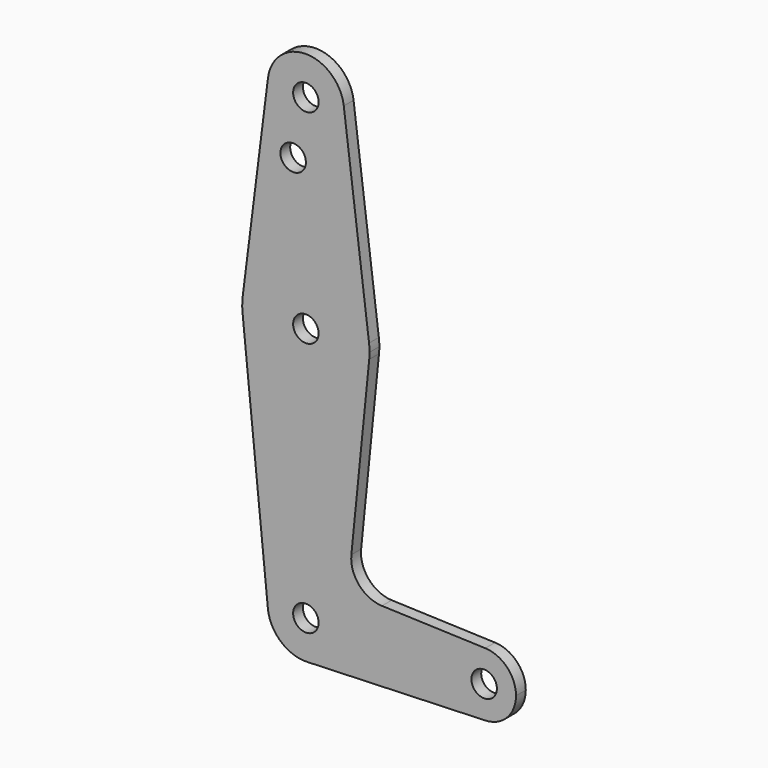
from build123d import *

# Parameters (mm, degrees)
F0_R     = 3.175
F1_DEPTH = 3.048


with BuildPart() as f1:
    # F0 (on Front) → F1 (new body)
    with BuildSketch(Plane.XZ):
        with BuildLine():
            Line((-41.0209696784, 53.578125), (-47.3211649879, 3.571875))
            ThreePointArc((-47.3211649879, 3.571875), (-31.5706767142, 17.4625), (-15.8201884405, 3.571875))
            Line((-15.8201884405, 3.571875), (-22.12038375, 53.578125))
            ThreePointArc((-22.12038375, 53.578125), (-22.06437182, 52.983983242), (-22.0456767142, 52.3875))
            ThreePointArc((-22.0456767142, 52.3875), (-32.1671599562, 42.8811951058), (-41.0209696784, 53.578125))
        make_face()
        with Locations((-34.7456767142, 38.1127)):
            Circle(F0_R, mode=Mode.SUBTRACT)
        with BuildLine():
            ThreePointArc((-22.12038375, 53.578125), (-31.5706767142, 61.9125), (-41.0209696784, 53.578125))
            ThreePointArc((-41.0209696784, 53.578125), (-32.1671599562, 42.8811951058), (-22.0456767142, 52.3875))
            ThreePointArc((-22.0456767142, 52.3875), (-22.06437182, 52.983983242), (-22.12038375, 53.578125))
        make_face()
        with Locations((-31.5706767142, 52.3875)):
            Circle(F0_R, mode=Mode.SUBTRACT)
        with BuildLine():
            ThreePointArc((-47.3211649879, 3.571875), (-47.4444205296, 1.7872054867), (-47.3661022782, 0))
            ThreePointArc((-47.3661022782, 0), (-31.5706767142, -14.2875), (-15.7752511501, 0))
            ThreePointArc((-15.7752511501, 0), (-15.7155828036, 0.7927534459), (-15.6956767142, 1.5875))
            ThreePointArc((-15.6956767142, 1.5875), (-15.7268352238, 2.5816387366), (-15.8201884405, 3.571875))
            ThreePointArc((-15.8201884405, 3.571875), (-31.5706767142, 17.4625), (-47.3211649879, 3.571875))
        make_face()
        with Locations((-31.5706767142, 1.5875)):
            Circle(F0_R, mode=Mode.SUBTRACT)
        with BuildLine():
            ThreePointArc((-41.0479320526, -62.865), (-32.0475246466, -52.3994436536), (-22.0456767142, -61.9125))
            Line((-22.0456767142, -61.9125), (4.9418232858, -61.9125))
            ThreePointArc((4.9418232858, -61.9125), (7.3674128011, -56.2008672161), (13.1617285604, -53.9800253854))
            Line((13.1617285604, -53.9800253854), (-12.6023488462, -53.0627944194))
            ThreePointArc((-12.6023488462, -53.0627944194), (-18.3094727317, -50.3450371041), (-20.2298408457, -44.3226078455))
            Line((-20.2298408457, -44.3226078455), (-15.7752511501, 0))
            ThreePointArc((-15.7752511501, 0), (-31.5706767142, -14.2875), (-47.3661022782, 0))
            Line((-47.3661022782, 0), (-41.0479320526, -62.865))
        make_face()
        with BuildLine():
            ThreePointArc((-31.2304976371, -71.4314234263), (-24.7162682529, -68.5263271557), (-22.0456767142, -61.9125))
            ThreePointArc((-22.0456767142, -61.9125), (-32.0475246466, -52.3994436536), (-41.0479320526, -62.865))
            ThreePointArc((-41.0479320526, -62.865), (-37.8330599052, -69.0894200754), (-31.2304976371, -71.4314234263))
        make_face()
        with Locations((-31.5706767142, -61.9125)):
            Circle(F0_R, mode=Mode.SUBTRACT)
        with BuildLine():
            Line((4.9418232858, -61.9125), (-22.0456767142, -61.9125))
            ThreePointArc((-22.0456767142, -61.9125), (-24.7162682529, -68.5263271557), (-31.2304976371, -71.4314234263))
            Line((-31.2304976371, -71.4314234263), (13.1617285604, -69.8449746146))
            ThreePointArc((13.1617285604, -69.8449746146), (7.3674128011, -67.6241327839), (4.9418232858, -61.9125))
        make_face()
        with BuildLine():
            ThreePointArc((13.1617285604, -53.9800253854), (7.3674128011, -56.2008672161), (4.9418232858, -61.9125))
            ThreePointArc((4.9418232858, -61.9125), (7.3674128011, -67.6241327839), (13.1617285604, -69.8449746146))
            ThreePointArc((13.1617285604, -69.8449746146), (18.5909560697, -67.4244104847), (20.8168232858, -61.9125))
            ThreePointArc((20.8168232858, -61.9125), (18.5909560697, -56.4005895153), (13.1617285604, -53.9800253854))
        make_face()
        with BuildLine():
            ThreePointArc((16.0543232858, -61.9125), (12.8793232858, -65.0875), (9.7043232858, -61.9125))
            ThreePointArc((9.7043232858, -61.9125), (12.8793232858, -58.7375), (16.0543232858, -61.9125))
        make_face(mode=Mode.SUBTRACT)
    extrude(amount=F1_DEPTH)


solid = f1.part
